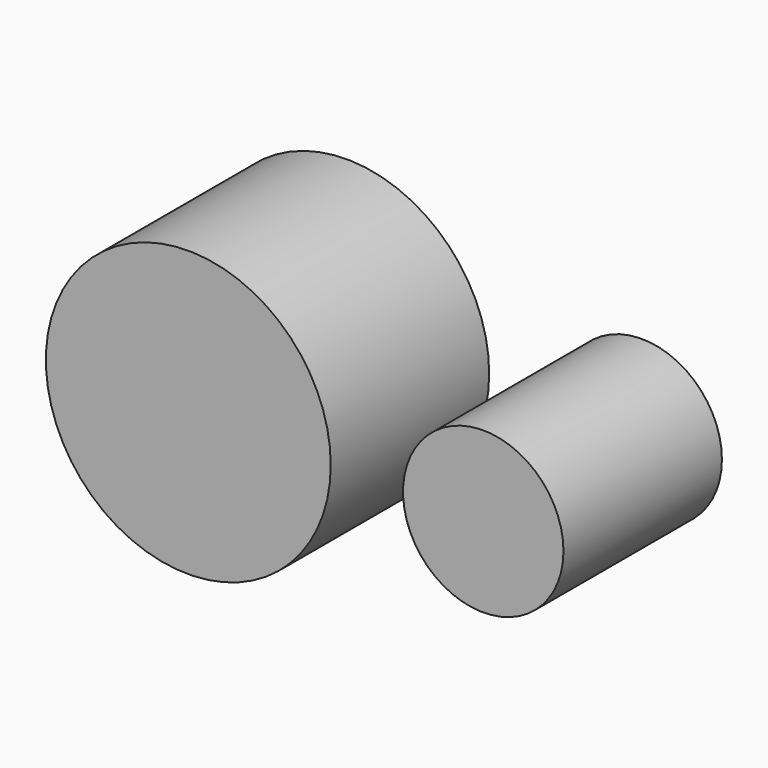
from build123d import *

# Parameters (mm, degrees)
F0_R     = 57.530058
F0_R_2   = 32.397095
F1_DEPTH = 80


with BuildPart() as f1:
    # F0 (on Front) → F1 (new body)
    with BuildSketch(Plane.XZ):
        Circle(F0_R)
        with Locations((119.132802, 0)):
            Circle(F0_R_2)
    extrude(amount=-F1_DEPTH)


solid = f1.part
